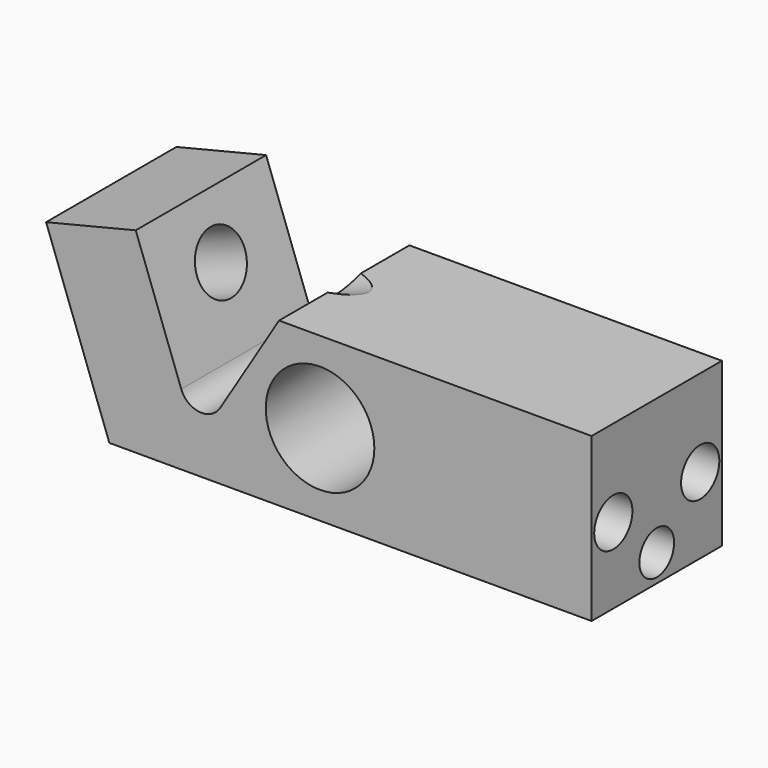
from build123d import *

# Parameters (mm, degrees)
F0_R     = 5
F1_DEPTH = 7.5
F3_D     = 5.5
F4_R     = 2
F5_DEPTH = 5
F6_D     = 4.4
F6_DEPTH = 8
F6_TIP   = 1.3218933619


with BuildPart() as f1:
    # F0 (on Front) → F1 (new body, symmetric)
    with BuildSketch(Plane.XZ):
        with BuildLine():
            Line((-14.3235237483, 16), (-8.5, 0))
            Line((-8.5, 0), (35.9, 0))
            Line((35.9, 0), (35.9, 15))
            Line((35.9, 15), (7.1255015407, 15))
            Line((7.1255015407, 15), (1.7052803287, 6.1550028706))
            ThreePointArc((1.7052803287, 6.1550028706), (-0.2003761232, 5.2100629635), (-1.8793852416, 6.5159597133))
            Line((-1.8793852416, 6.5159597133), (-6.0681093439, 18.0243846007))
            Line((-6.0681093439, 18.0243846007), (-14.3235237483, 16))
        make_face()
        with Locations((10.9, 7.5)):
            Circle(F0_R, mode=Mode.SUBTRACT)
    extrude(amount=F1_DEPTH, both=True)

    # F3 (through all)
    with Locations(Plane(origin=(-7.5056888833, 0, -2.7318473412), x_dir=(0, -1, 0), z_dir=(-0.9396926208, 0, -0.3420201433))):
        with Locations((0, 13.6340155779)):
            Hole(F3_D / 2)

    # F4 (on face) → F5 (cut)
    with BuildSketch(Plane.YZ.offset(35.9)):
        with Locations((0, 2.5)):
            Circle(F4_R)
    extrude(amount=-F5_DEPTH, mode=Mode.SUBTRACT)

    # F6
    with Locations(Plane.YZ.offset(35.9)):
        with Locations((-5, 7), (5, 7)):
            Hole(F6_D / 2, depth=F6_DEPTH)
            with Locations((0, 0, -(F6_DEPTH + F6_TIP / 2))):  # 118° drill point
                Cone(0, F6_D / 2, F6_TIP, mode=Mode.SUBTRACT)


solid = f1.part
